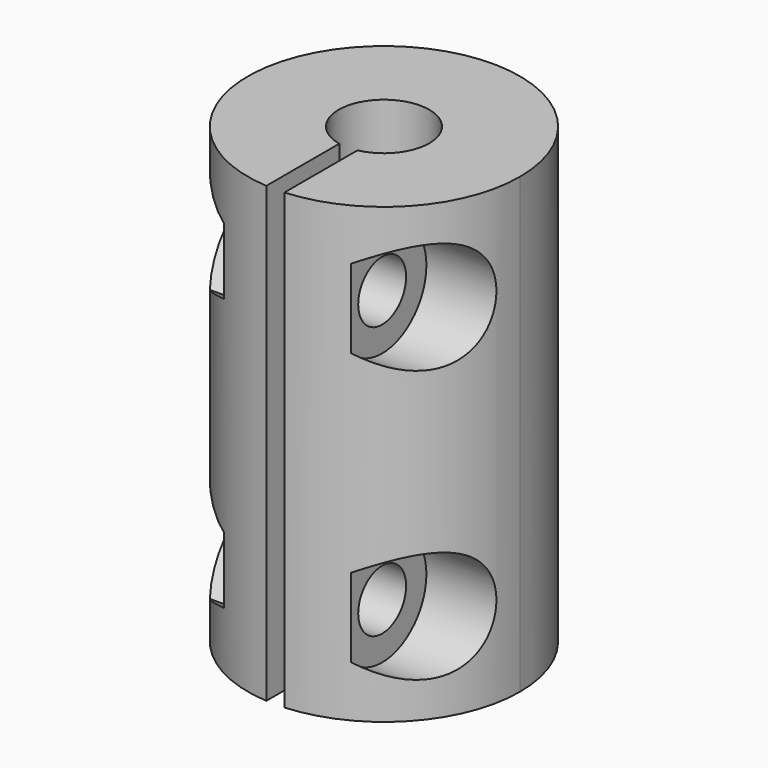
from build123d import *

# Parameters (mm, degrees)
F1_DEPTH       = 25
F4_D           = 3.3
F4_CBORE_D     = 6.1
F4_CBORE_DEPTH = 4
F3_R           = 1.5
F5_DEPTH       = 3
F6_DEPTH       = 3
F9_DEPTH       = 4


with BuildPart() as f1:
    # F0 (on Top) → F1 (new body)
    with BuildSketch(Plane.XY):
        with BuildLine():
            ThreePointArc((-0.5, -2.44949), (-1.581139, 1.936492), (2.5, 0))
            ThreePointArc((2.5, 0), (1.936492, -1.581139), (0.5, -2.44949))
            Line((0.5, -2.44949), (0.5, -7.483315))
            ThreePointArc((0.5, -7.483315), (5.477226, -5.123475), (7.5, 0))
            ThreePointArc((7.5, 0), (-5.123475, 5.477226), (-0.5, -7.483315))
            Line((-0.5, -7.483315), (-0.5, -2.44949))
        make_face()
    extrude(amount=F1_DEPTH)

    # F4 (through all)
    with Locations(Plane.YZ.offset(7.5)):
        with Locations((-4.5, 20), (-4.5, 5)):
            CounterBoreHole(F4_D / 2, F4_CBORE_D / 2, F4_CBORE_DEPTH)

    # F3 (on plane+point) → F5 (cut)
    with BuildSketch(Plane.YZ.offset(7.5)):
        with Locations((-4.5, 5)):
            Circle(F3_R)
        with Locations((-4.5, 5)):
            Circle(F3_R)
    extrude(amount=-F5_DEPTH, mode=Mode.SUBTRACT)

    # F3 (on plane+point) → F6 (cut)
    with BuildSketch(Plane.YZ.offset(7.5)):
        with Locations((-4.5, 20)):
            Circle(F3_R)
        with Locations((-4.5, 20)):
            Circle(F3_R)
    extrude(amount=-F6_DEPTH, mode=Mode.SUBTRACT)

    # F8 (on plane+point) → F9 (cut)
    with BuildSketch(Plane.YZ.offset(-7.5)):
        Polygon((-7.141377, 3.475), (-4.5, 1.95), (-1.858623, 3.475), (-1.858623, 6.525), (-4.5, 8.05), (-7.141377, 6.525), align=None)
        Polygon((-1.858623, 18.475), (-1.858623, 21.525), (-4.5, 23.05), (-7.141377, 21.525), (-7.141377, 18.475), (-4.5, 16.95), align=None)
    extrude(amount=F9_DEPTH, mode=Mode.SUBTRACT)


solid = f1.part
